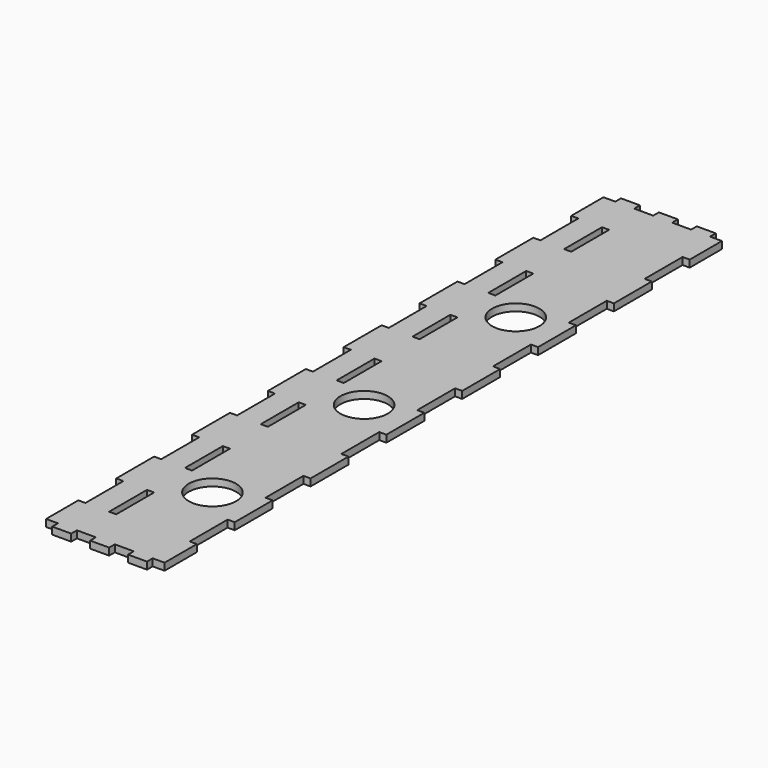
from build123d import *

# Parameters (mm, degrees)
SKETCH_W      = 50
SKETCH_H      = 300
PAD_DEPTH     = 3
SKETCH001_R   = 10
SKETCH001_W   = 3
SKETCH001_H   = 20
SKETCH001_W_2 = 8
SKETCH001_H_2 = 3
POCKET_DEPTH  = 3.001


with BuildPart() as part:
    # Sketch → Pad (new body)
    with BuildSketch(Plane.XY):
        with Locations((25, 150)):
            Rectangle(SKETCH_W, SKETCH_H)
    extrude(amount=PAD_DEPTH)

    # Sketch001 (on Face6 of Pad) → Pocket (cut, through all)
    with BuildSketch(Plane.XY.offset(3)):
        with Locations((31, 52)):
            Circle(SKETCH001_R)
        with Locations((31, 132)):
            Circle(SKETCH001_R)
        with Locations((31, 212)):
            Circle(SKETCH001_R)
        with Locations((1.5, 30)):
            Rectangle(SKETCH001_W, SKETCH001_H)
        with Locations((1.5, 70)):
            Rectangle(SKETCH001_W, SKETCH001_H)
        with Locations((1.5, 110)):
            Rectangle(SKETCH001_W, SKETCH001_H)
        with Locations((1.5, 150)):
            Rectangle(SKETCH001_W, SKETCH001_H)
        with Locations((1.5, 190)):
            Rectangle(SKETCH001_W, SKETCH001_H)
        with Locations((1.5, 230)):
            Rectangle(SKETCH001_W, SKETCH001_H)
        with Locations((1.5, 270)):
            Rectangle(SKETCH001_W, SKETCH001_H)
        with Locations((14.5, 30)):
            Rectangle(SKETCH001_W, SKETCH001_H)
        with Locations((14.5, 70)):
            Rectangle(SKETCH001_W, SKETCH001_H)
        with Locations((14.5, 110)):
            Rectangle(SKETCH001_W, SKETCH001_H)
        with Locations((14.5, 150)):
            Rectangle(SKETCH001_W, SKETCH001_H)
        with Locations((14.5, 190)):
            Rectangle(SKETCH001_W, SKETCH001_H)
        with Locations((14.5, 230)):
            Rectangle(SKETCH001_W, SKETCH001_H)
        with Locations((14.5, 270)):
            Rectangle(SKETCH001_W, SKETCH001_H)
        with Locations((48.5, 30)):
            Rectangle(SKETCH001_W, SKETCH001_H)
        with Locations((48.5, 70)):
            Rectangle(SKETCH001_W, SKETCH001_H)
        with Locations((48.5, 110)):
            Rectangle(SKETCH001_W, SKETCH001_H)
        with Locations((48.5, 150)):
            Rectangle(SKETCH001_W, SKETCH001_H)
        with Locations((48.5, 190)):
            Rectangle(SKETCH001_W, SKETCH001_H)
        with Locations((48.5, 230)):
            Rectangle(SKETCH001_W, SKETCH001_H)
        with Locations((48.5, 270)):
            Rectangle(SKETCH001_W, SKETCH001_H)
        with Locations((1, 1.5)):
            Rectangle(SKETCH001_W_2, SKETCH001_H_2)
        with Locations((17, 1.5)):
            Rectangle(SKETCH001_W_2, SKETCH001_H_2)
        with Locations((33, 1.5)):
            Rectangle(SKETCH001_W_2, SKETCH001_H_2)
        with Locations((49, 1.5)):
            Rectangle(SKETCH001_W_2, SKETCH001_H_2)
        with Locations((1, 298.5)):
            Rectangle(SKETCH001_W_2, SKETCH001_H_2)
        with Locations((17, 298.5)):
            Rectangle(SKETCH001_W_2, SKETCH001_H_2)
        with Locations((33, 298.5)):
            Rectangle(SKETCH001_W_2, SKETCH001_H_2)
        with Locations((49, 298.5)):
            Rectangle(SKETCH001_W_2, SKETCH001_H_2)
    extrude(amount=-POCKET_DEPTH, mode=Mode.SUBTRACT)


solid = part.part
